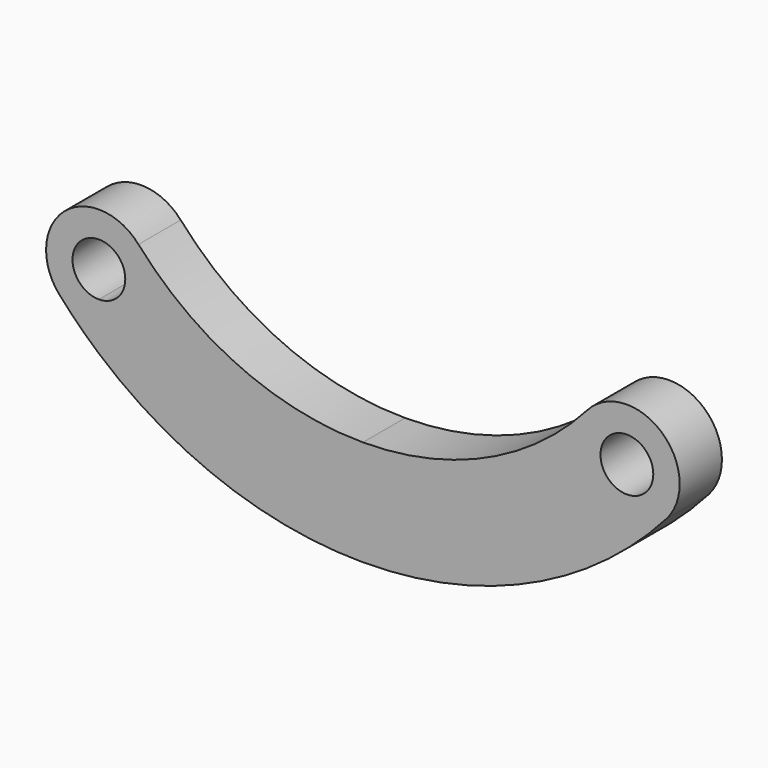
from build123d import *

# Parameters (mm, degrees)
F0_R     = 9.525
F1_DEPTH = 19.05


with BuildPart() as f1:
    # F0 (on Front) → F1 (new body)
    with BuildSketch(Plane.XZ):
        with BuildLine():
            ThreePointArc((-95.25, 67.083967), (-50.796289, 40.868121), (0, 31.75))
            Line((0, 31.75), (0, 69.85))
            ThreePointArc((0, 69.85), (-44.414714, 79.410286), (-80.9625, 106.397786))
            ThreePointArc((-80.9625, 106.397786), (-107.850391, 108.084896), (-109.5375, 81.197005))
            ThreePointArc((-109.5375, 81.197005), (-102.636614, 73.89462), (-95.25, 67.083967))
        make_face()
        with BuildLine():
            ThreePointArc((-85.725, 93.797396), (-88.514808, 87.062204), (-95.25, 84.272396))
            ThreePointArc((-95.25, 84.272396), (-101.985192, 100.532588), (-85.725, 93.797396))
        make_face(mode=Mode.SUBTRACT)
        with BuildLine():
            Line((0, 69.85), (0, 31.75))
            ThreePointArc((0, 31.75), (60.090495, 44.684505), (109.5375, 81.197005))
            ThreePointArc((109.5375, 81.197005), (107.850391, 108.084896), (80.9625, 106.397786))
            ThreePointArc((80.9625, 106.397786), (44.414714, 79.410286), (0, 69.85))
        make_face()
        with Locations((95.25, 93.797396)):
            Circle(F0_R, mode=Mode.SUBTRACT)
    extrude(amount=F1_DEPTH)


solid = f1.part
